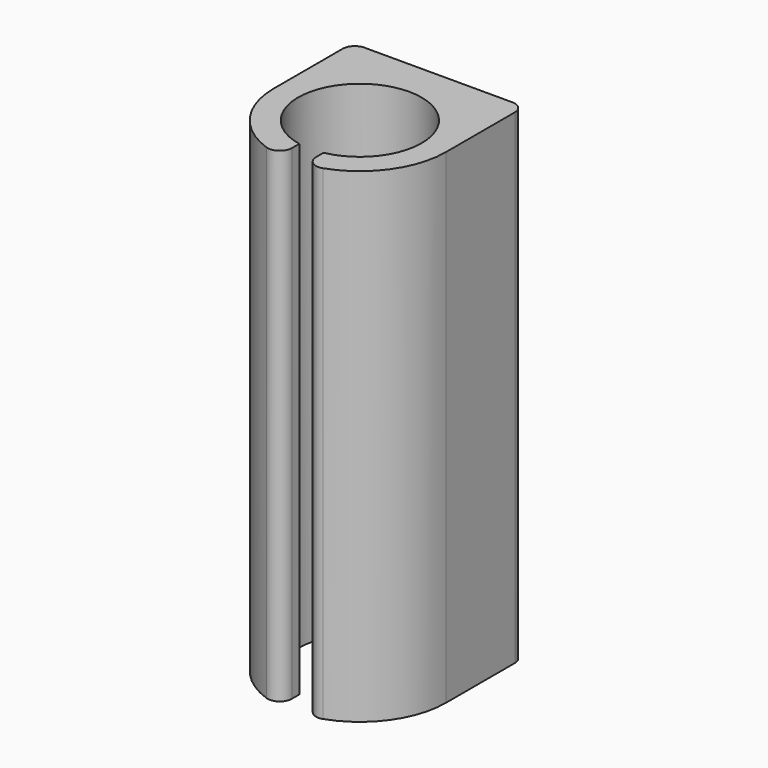
from build123d import *

# Parameters (mm, degrees)
F1_DEPTH = 200
F2_R     = 5
F3_DEPTH = 5
F4_R     = 5


with BuildPart() as f1:
    # F0 (on Top) → F1 (new body)
    with BuildSketch(Plane.XY):
        with BuildLine():
            ThreePointArc((-5, -25.0049995001), (0, 25.5), (5, -25.0049995001))
            Line((5, -25.0049995001), (5, -35.1461235416))
            ThreePointArc((5, -35.1461235416), (26.8118443976, -23.2674665574), (35.5, 0))
            Line((35.5, 0), (35.5, 35.5))
            Line((35.5, 35.5), (0, 35.5))
            Line((0, 35.5), (-35.5, 35.5))
            Line((-35.5, 35.5), (-35.5, 0))
            ThreePointArc((-35.5, 0), (-26.8118443976, -23.2674665574), (-5, -35.1461235416))
            Line((-5, -35.1461235416), (-5, -25.0049995001))
        make_face()
    extrude(amount=F1_DEPTH)

    # F2
    f2_edges = [f1.edges().sort_by_distance(p)[0] for p in [
        (-5, -35.146124, 100),
        (5, -35.146124, 100),
    ]]
    fillet(f2_edges, radius=F2_R)

    # F3 (add): a face of the model
    f3_faces = [f1.faces().sort_by_distance(p)[0] for p in [
        (0, 35.5, 100),
    ]]
    extrude(f3_faces, amount=F3_DEPTH)

    # F4
    f4_edges = [f1.edges().sort_by_distance(p)[0] for p in [
        (35.5, 40.5, 100),
        (-35.5, 40.5, 100),
    ]]
    fillet(f4_edges, radius=F4_R)


solid = f1.part
